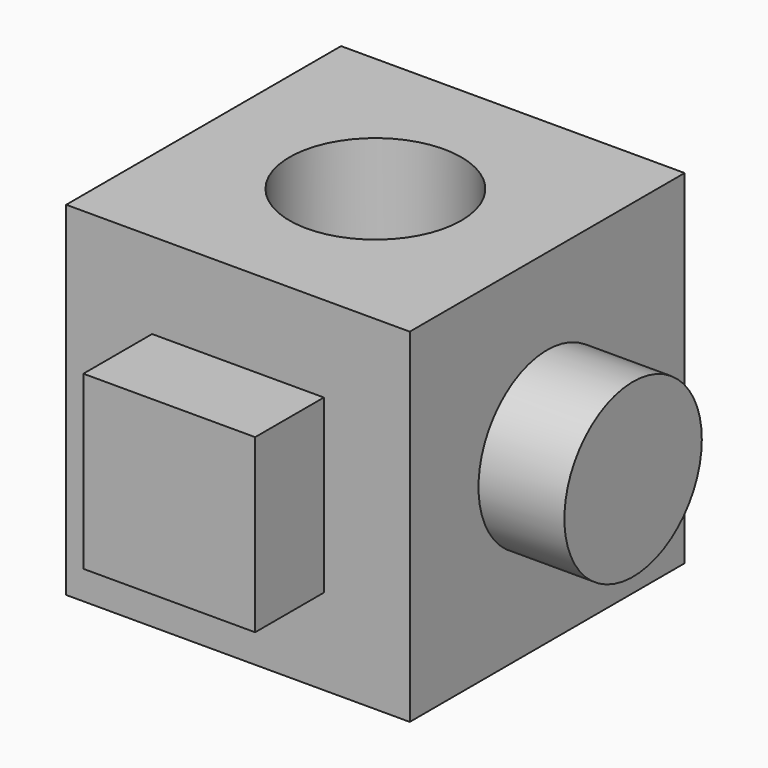
from build123d import *

# Parameters (mm, degrees)
F0_W     = 50.8
F0_H     = 50.8
F1_DEPTH = 50.8
F2_R     = 12.7
F3_DEPTH = 50.8
F4_W     = 25.4
F4_H     = 25.4
F5_DEPTH = 12.7
F6_R     = 12.7
F7_DEPTH = 12.7


with BuildPart() as f1:
    # F0 (on Front) → F1 (new body)
    with BuildSketch(Plane.XZ):
        with Locations((-9.067313, 7.354785)):
            Rectangle(F0_W, F0_H)
    extrude(amount=F1_DEPTH)

    # F2 (on face) → F3 (cut)
    with BuildSketch(Plane.XY.offset(32.754785)):
        with Locations((-9.067313, -25.4)):
            Circle(F2_R)
    extrude(amount=-F3_DEPTH, mode=Mode.SUBTRACT)

    # F4 (on face) → F5 (join)
    with BuildSketch(Plane.XZ.offset(50.8)):
        with Locations((-9.067313, 7.354785)):
            Rectangle(F4_W, F4_H)
    extrude(amount=F5_DEPTH)

    # F6 (on face) → F7 (join)
    with BuildSketch(Plane.YZ.offset(16.332687)):
        with Locations((-25.4, 7.354785)):
            Circle(F6_R)
    extrude(amount=F7_DEPTH)


solid = f1.part
